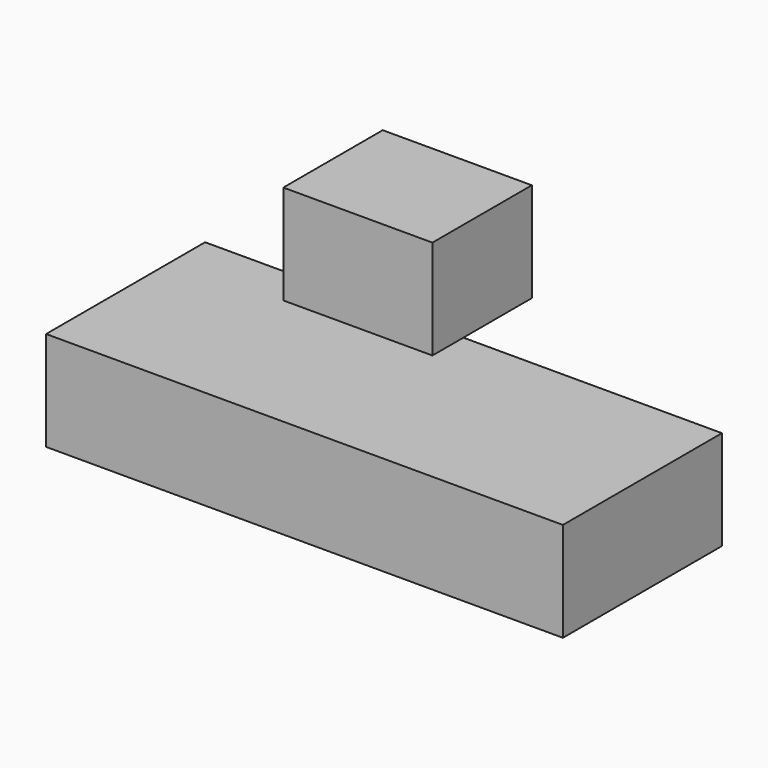
from build123d import *

# Parameters (mm, degrees)
F0_W     = 132.08
F0_H     = 50.8
F1_DEPTH = 25.4
F2_W     = 38.1
F2_H     = 31.75
F3_DEPTH = 25.4
F4_DEPTH = 25.4


with BuildPart() as f1:
    # F0 (on Top) → F1 (new body)
    with BuildSketch(Plane.XY):
        with Locations((-82.06671, 36.546972)):
            Rectangle(F0_W, F0_H)
    extrude(amount=F1_DEPTH)

    # F2 (on face) → F3 (join)
    with BuildSketch(Plane.XY.offset(25.4)):
        with Locations((-101.147438, 67.928043)):
            Rectangle(F2_W, F2_H)
    extrude(amount=F3_DEPTH)

    # F2 (on face) → F4 (join)
    with BuildSketch(Plane.XY.offset(25.4)):
        with Locations((-101.147438, 67.928043)):
            Rectangle(F2_W, F2_H)
    extrude(amount=F4_DEPTH)


solid = f1.part
